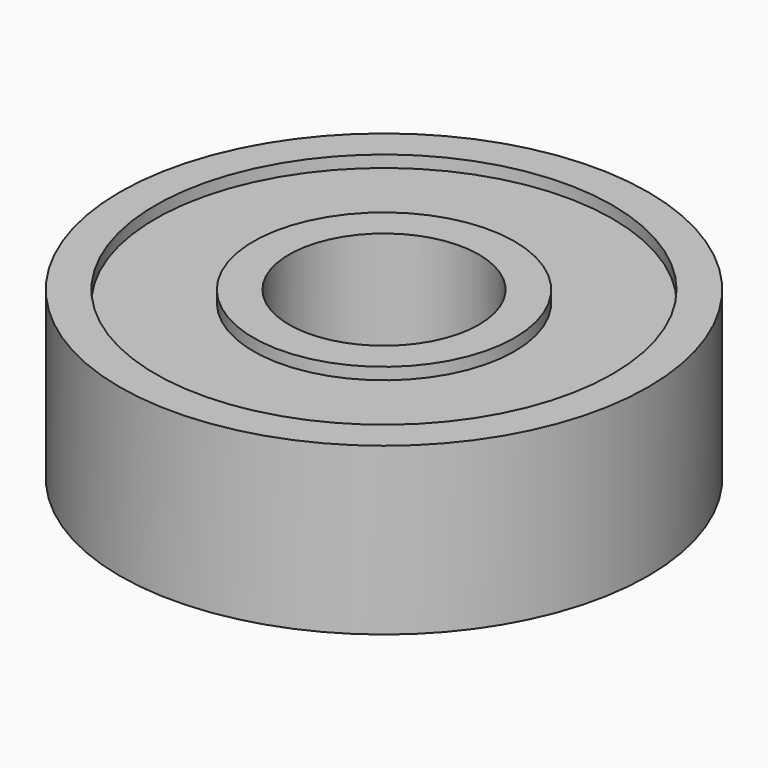
from build123d import *

# Parameters (mm, degrees)
F0_R     = 11.125
F0_R_2   = 4
F1_DEPTH = 3.5
F2_R     = 9.625
F2_R_2   = 5.5
F3_DEPTH = 12.5
F4_DEPTH = 3


with BuildPart() as f1:
    # F0 (on Top) → F1 (new body, symmetric)
    with BuildSketch(Plane.XY):
        Circle(F0_R)
        Circle(F0_R_2, mode=Mode.SUBTRACT)
    extrude(amount=F1_DEPTH, both=True)

    # F2 (on Top) → F3 (cut, symmetric)
    with BuildSketch(Plane.XY):
        Circle(F2_R)
        Circle(F2_R_2, mode=Mode.SUBTRACT)
    extrude(amount=F3_DEPTH, both=True, mode=Mode.SUBTRACT)

    # F2 (on Top) → F4 (join, symmetric)
    with BuildSketch(Plane.XY):
        Circle(F2_R)
        Circle(F2_R_2, mode=Mode.SUBTRACT)
    extrude(amount=F4_DEPTH, both=True)


solid = f1.part
